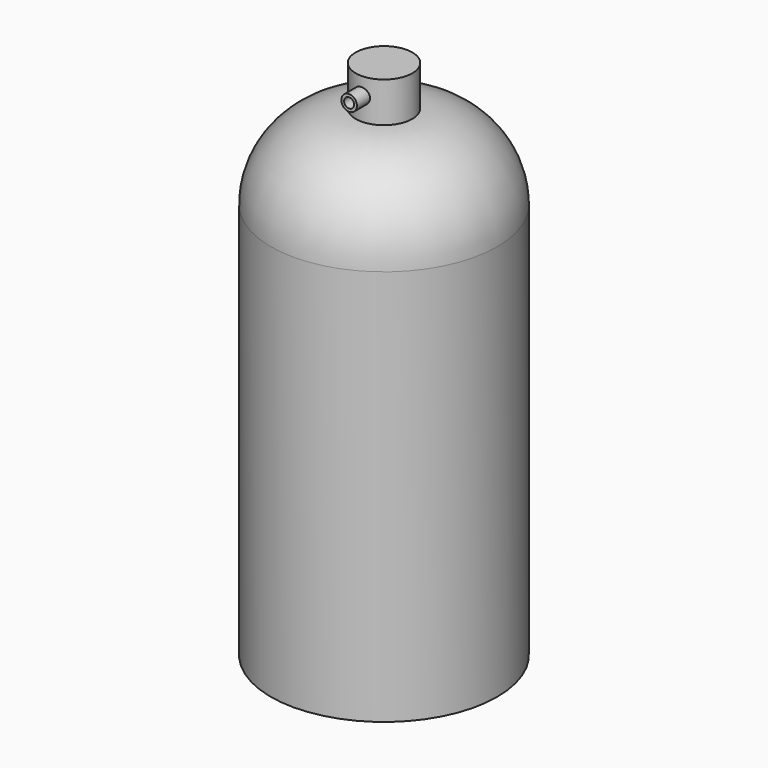
from build123d import *

# Parameters (mm, degrees)
F0_R     = 50.8
F1_DEPTH = 215.9
F2_R     = 38.1
F3_DEPTH = 18.034
F4_R     = 3.510245122
F5_DEPTH = 19.558
F6_T     = -1.27


with BuildPart() as f1:
    # F0 (on Top) → F1 (new body)
    with BuildSketch(Plane.XY):
        Circle(F0_R)
    extrude(amount=F1_DEPTH)

    # F2
    f2_edges = [f1.edges().sort_by_distance(p)[0] for p in [
        (-50.8, 0, 215.9),
    ]]
    fillet(f2_edges, radius=F2_R)

    # F3 (add): a face of the model
    f3_faces = [f1.faces().sort_by_distance(p)[0] for p in [
        (0, 0, 215.9),
    ]]
    extrude(f3_faces, amount=F3_DEPTH)

    # F4 (on Front) → F5 (join)
    with BuildSketch(Plane.XZ):
        with Locations((0, 226.0505408049)):
            Circle(F4_R)
    extrude(amount=F5_DEPTH)

    # F6
    f6_openings = [f1.faces().sort_by_distance(p)[0] for p in [
        (0, -19.558, 226.050541),
    ]]
    offset(amount=F6_T, openings=f6_openings, kind=Kind.INTERSECTION)


solid = f1.part
